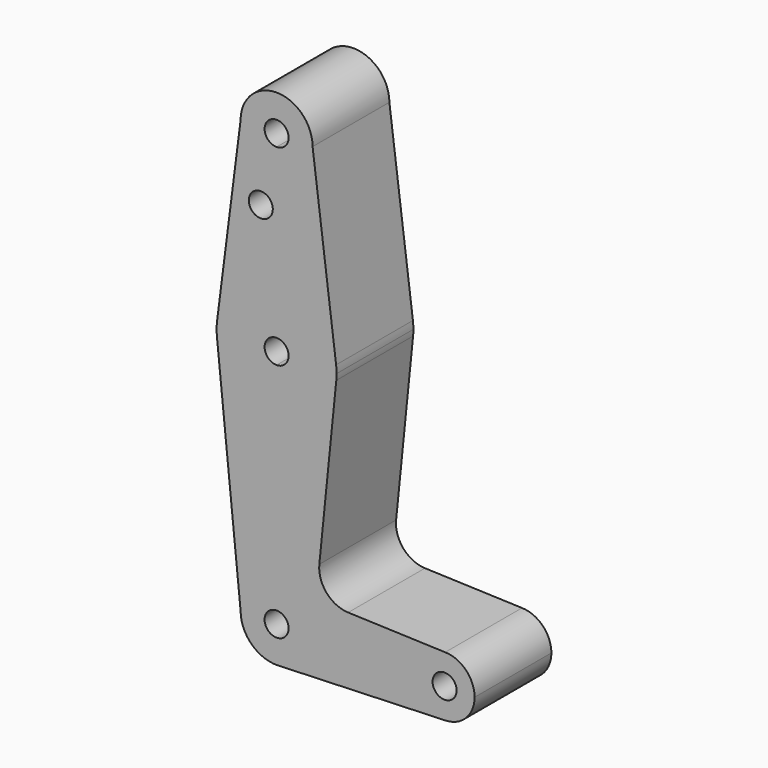
from build123d import *

# Parameters (mm, degrees)
F0_R     = 3.175
F1_DEPTH = 25.4


with BuildPart() as f1:
    # F0 (on Front) → F1 (new body)
    with BuildSketch(Plane.XZ):
        with BuildLine():
            ThreePointArc((9.525, 0), (6.7351920908, 6.7351920908), (0, 9.525))
            ThreePointArc((0, 9.525), (-6.7351920908, 6.7351920908), (-9.525, 0))
            ThreePointArc((-9.525, 0), (-6.6138274083, -6.8544082176), (0.3401783754, -9.5189234514))
            ThreePointArc((0.3401783754, -9.5189234514), (6.8544082176, -6.6138274083), (9.525, 0))
        make_face()
        with BuildLine():
            ThreePointArc((3.175, 0), (-2.2450640303, -2.2450640303), (0, 3.175))
            ThreePointArc((0, 3.175), (2.2450640303, 2.2450640303), (3.175, 0))
        make_face(mode=Mode.SUBTRACT)
        with BuildLine():
            ThreePointArc((-9.525, 0), (-6.7351920908, 6.7351920908), (0, 9.525))
            Line((0, 9.525), (0, 47.625))
            ThreePointArc((0, 47.625), (-10.644756084, 51.722700101), (-15.7942028036, 61.9003804205))
            Line((-15.7942028036, 61.9003804205), (-9.525, 0))
        make_face()
        with BuildLine():
            Line((0, 47.625), (0, 9.525))
            ThreePointArc((0, 9.525), (6.7351920908, 6.7351920908), (9.525, 0))
            ThreePointArc((9.525, 0), (6.8544082176, -6.6138274083), (0.3401783754, -9.5189234514))
            Line((0.3401783754, -9.5189234514), (44.7334821429, -7.9324362036))
            ThreePointArc((44.7334821429, -7.9324362036), (36.5127422872, -0.0620181515), (44.6094941417, 7.9358974205))
            Line((44.6094941417, 7.9358974205), (18.9338924558, 8.8505270449))
            ThreePointArc((18.9338924558, 8.8505270449), (13.2248772537, 11.5706407269), (11.3071823287, 17.5967770675))
            Line((11.3071823287, 17.5967770675), (15.7942028036, 61.9003804205))
            ThreePointArc((15.7942028036, 61.9003804205), (10.644756084, 51.722700101), (0, 47.625))
        make_face()
        with BuildLine():
            ThreePointArc((-15.7942028036, 61.9003804205), (-10.644756084, 51.722700101), (0, 47.625))
            Line((0, 47.625), (0, 60.325))
            ThreePointArc((0, 60.325), (-3.175, 63.5), (0, 66.675))
            Line((0, 66.675), (0, 79.375))
            ThreePointArc((0, 79.375), (-10.4912828548, 75.4142187767), (-15.7474569047, 65.5082893304))
            ThreePointArc((-15.7474569047, 65.5082893304), (-15.873667691, 63.7056672947), (-15.7942028036, 61.9003804205))
        make_face()
        with BuildLine():
            Line((0, 60.325), (0, 47.625))
            ThreePointArc((0, 47.625), (10.644756084, 51.722700101), (15.7942028036, 61.9003804205))
            ThreePointArc((15.7942028036, 61.9003804205), (15.8547878338, 62.6991705884), (15.875, 63.5))
            ThreePointArc((15.875, 63.5), (15.8430821396, 64.5061676396), (15.7474569047, 65.5082893304))
            ThreePointArc((15.7474569047, 65.5082893304), (10.4912828548, 75.4142187767), (0, 79.375))
            Line((0, 79.375), (0, 66.675))
            ThreePointArc((0, 66.675), (2.2450640303, 65.7450640303), (3.175, 63.5))
            ThreePointArc((3.175, 63.5), (2.2450640303, 61.2549359697), (0, 60.325))
        make_face()
        with BuildLine():
            Line((-9.525, 114.3), (-15.7474569047, 65.5082893304))
            ThreePointArc((-15.7474569047, 65.5082893304), (-10.4912828548, 75.4142187767), (0, 79.375))
            Line((0, 79.375), (0, 104.775))
            ThreePointArc((0, 104.775), (-6.7351920908, 107.5648079092), (-9.525, 114.3))
        make_face()
        with Locations((-4.1781016625, 96.3086113334)):
            Circle(F0_R, mode=Mode.SUBTRACT)
        with BuildLine():
            ThreePointArc((44.6094941417, 7.9358974205), (36.5127422872, -0.0620181515), (44.7334821429, -7.9324362036))
            ThreePointArc((44.7334821429, -7.9324362036), (50.1620069047, -5.5115227815), (52.3875, 0))
            ThreePointArc((52.3875, 0), (50.1187693109, 5.5559842287), (44.6094941417, 7.9358974205))
        make_face()
        with Locations((44.45, 0)):
            Circle(F0_R, mode=Mode.SUBTRACT)
        with BuildLine():
            Line((0, 104.775), (0, 79.375))
            ThreePointArc((0, 79.375), (10.4912828548, 75.4142187767), (15.7474569047, 65.5082893304))
            Line((15.7474569047, 65.5082893304), (9.525, 114.3))
            ThreePointArc((9.525, 114.3), (6.7351920908, 107.5648079092), (0, 104.775))
        make_face()
        with BuildLine():
            ThreePointArc((9.525, 114.3), (0, 123.825), (-9.525, 114.3))
            ThreePointArc((-9.525, 114.3), (-6.7351920908, 107.5648079092), (0, 104.775))
            ThreePointArc((0, 104.775), (6.7351920908, 107.5648079092), (9.525, 114.3))
        make_face()
        with BuildLine():
            ThreePointArc((3.175, 114.3), (2.2450640303, 112.0549359697), (0, 111.125))
            ThreePointArc((0, 111.125), (-2.2450640303, 116.5450640303), (3.175, 114.3))
        make_face(mode=Mode.SUBTRACT)
    extrude(amount=F1_DEPTH)


solid = f1.part
